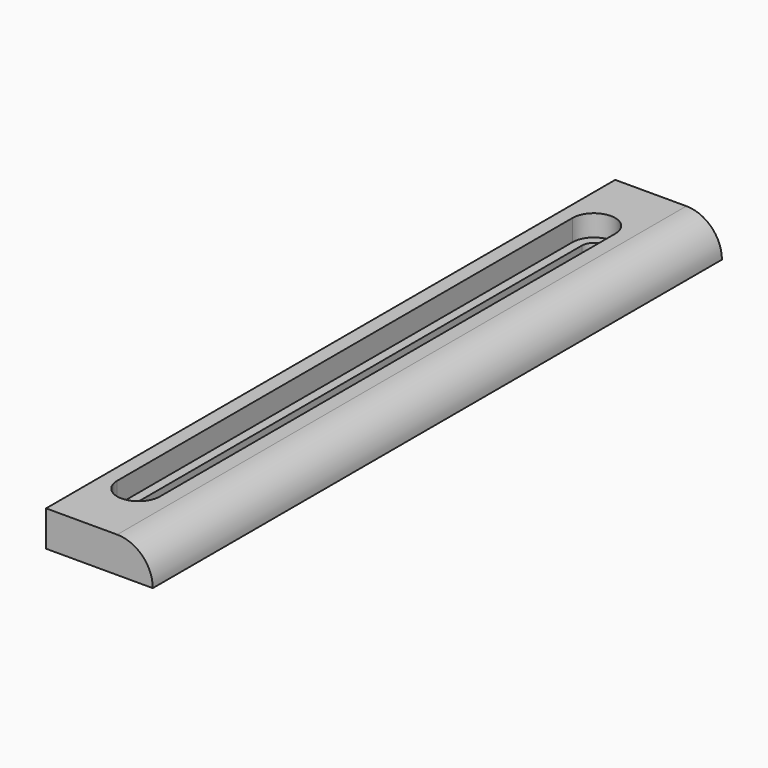
from build123d import *

# Parameters (mm, degrees)
PAD_DEPTH       = 100
POCKET_DEPTH    = 3
POCKET001_DEPTH = 3


with BuildPart() as part:
    # Sketch → Pad (new body)
    with BuildSketch(Plane.XZ):
        with BuildLine():
            Line((0, 0), (0, 5))
            Line((0, 5), (10, 5))
            ThreePointArc((14.999978, 0), (13.535519, 3.535526), (10, 5))
            Line((0, 0), (14.999978, 0))
        make_face()
    extrude(amount=PAD_DEPTH)

    # Sketch001 → Pocket (cut)
    with BuildSketch(Plane.XY.offset(5)):
        with BuildLine():
            ThreePointArc((8, -10), (5, -7), (2, -10))
            Line((2, -10), (2, -90))
            ThreePointArc((2, -90), (5, -93), (8, -90))
            Line((8, -10), (8, -90))
        make_face()
    extrude(amount=-POCKET_DEPTH, mode=Mode.SUBTRACT)

    # Sketch002 → Pocket001 (cut)
    with BuildSketch(Plane.XY.offset(2)):
        with BuildLine():
            Line((6.7, -10), (6.7, -90))
            ThreePointArc((3.3, -90), (5, -91.7), (6.7, -90))
            Line((3.3, -90), (3.3, -10))
            ThreePointArc((6.7, -10), (5, -8.3), (3.3, -10))
        make_face()
    extrude(amount=-POCKET001_DEPTH, mode=Mode.SUBTRACT)


solid = part.part
